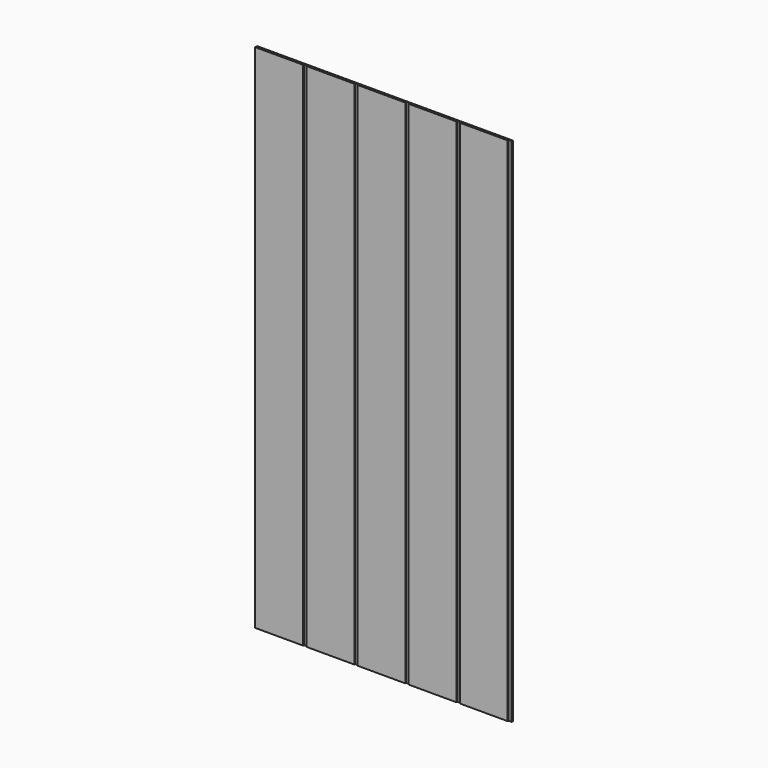
from build123d import *

# Parameters (mm, degrees)
F0_W     = 1219.2
F0_H     = 2438.4
F1_DEPTH = 11.1125
F3_DEPTH = 2540


with BuildPart() as f1:
    # F0 (on Front) → F1 (new body)
    with BuildSketch(Plane.XZ):
        with Locations((609.6, 1219.2)):
            Rectangle(F0_W, F0_H)
    extrude(amount=F1_DEPTH)

    # F2 (on face) → F3 (cut)
    with BuildSketch(Plane(origin=(0, 0, 0), x_dir=(1, 0, 0), z_dir=(0, 0, -1))):
        Polygon((0, 32.127548), (0, 11.1125), (228.6, 11.1125), (228.6, 6.35), (243.84, 6.35), (243.84, 11.1125), (472.44, 11.1125), (472.44, 6.35), (487.68, 6.35), (487.68, 11.1125), (716.28, 11.1125), (716.28, 6.35), (731.52, 6.35), (731.52, 11.1125), (960.12, 11.1125), (960.12, 6.35), (975.36, 6.35), (975.36, 11.1125), (1203.96, 11.1125), (1203.96, 6.35), (1219.2, 6.35), (1219.2, 25.300512), align=None)
    extrude(amount=-F3_DEPTH, mode=Mode.SUBTRACT)


solid = f1.part
